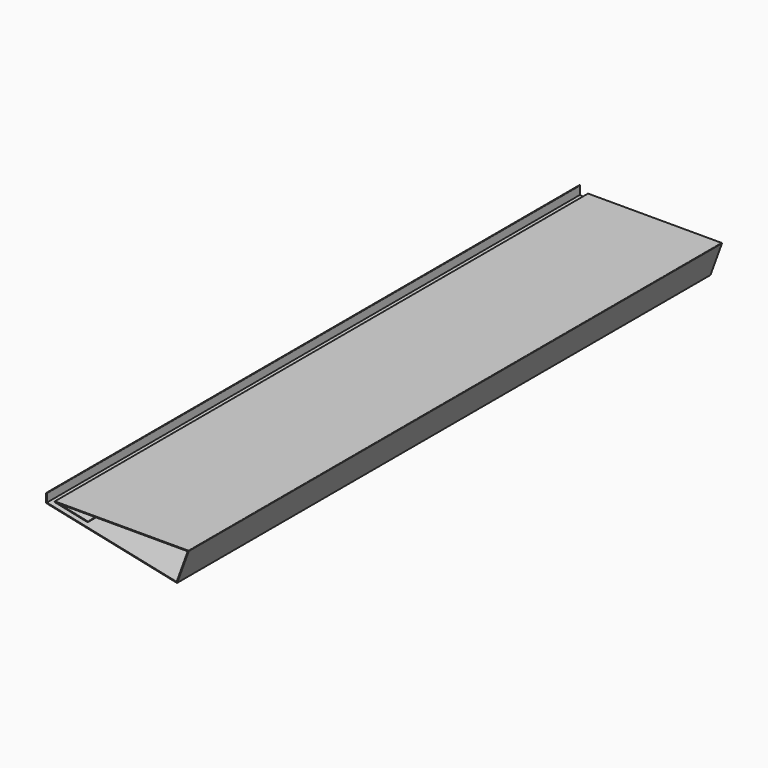
from build123d import *

# Parameters (mm, degrees)
F1_DEPTH = 200


with BuildPart() as f1:
    # F0 (on Front) → F1 (new body, symmetric)
    with BuildSketch(Plane.XZ):
        with BuildLine():
            Line((0.0519779227, 0.2445369002), (1.2024335862, 0))
            Line((1.2024335862, 0), (79.7339555569, 0))
            Line((79.7339555569, 0), (79.7650768448, 0.0855050358))
            ThreePointArc((79.7650768448, 0.0855050358), (79.8566058909, 0.2047880111), (80, 0.25))
            Line((80, 0.25), (0, 0.25))
            ThreePointArc((0, 0.25), (0.0261321158, 0.2486304738), (0.0519779227, 0.2445369002))
        make_face()
        with BuildLine():
            Line((2.3785911136, -0.25), (1.1761575274, -0.25))
            Line((1.1761575274, -0.25), (0, -0.25))
            ThreePointArc((0, -0.25), (-0.0261321158, -0.2486304738), (-0.0519779227, -0.2445369002))
            Line((-0.0519779227, -0.2445369002), (19.510974092, -4.4027707165))
            ThreePointArc((19.510974092, -4.4027707165), (19.8074889149, -4.2102117391), (19.6149299374, -3.9136969162))
            Line((19.6149299374, -3.9136969162), (2.3785911136, -0.25))
        make_face()
        with BuildLine():
            Line((72.9246739783, -18.7083473799), (72.999002372, -18.5041317967))
            Line((72.999002372, -18.5041317967), (-4.8422109252, -1.958471142))
            Line((-4.8422109252, -1.958471142), (-4.8422109252, -2.1609171503))
            ThreePointArc((-4.8422109252, -2.1609171503), (-4.8435804514, -2.1870492661), (-4.847674025, -2.212895073))
            Line((-4.847674025, -2.212895073), (72.9150602333, -18.741874493))
            ThreePointArc((72.9150602333, -18.741874493), (72.9192817095, -18.7249430768), (72.9246739783, -18.7083473799))
        make_face()
        Polygon((79.7339555569, 0), (1.2024335862, 0), (2.3785911136, -0.25), (79.6429629983, -0.25), align=None)
        with BuildLine():
            Line((80, -0.25), (79.9090074414, -0.25))
            Line((79.9090074414, -0.25), (73.2451021693, -18.5589292605))
            ThreePointArc((73.2451021693, -18.5589292605), (73.3861740802, -18.6881978503), (73.3945202887, -18.8793574515))
            Line((73.3945202887, -18.8793574515), (80.2349231552, -0.0855050358))
            ThreePointArc((80.2349231552, -0.0855050358), (80.1433941091, -0.2047880111), (80, -0.25))
        make_face()
        with BuildLine():
            Line((79.9090074414, -0.25), (79.6429629983, -0.25))
            Line((79.6429629983, -0.25), (72.999002372, -18.5041317967))
            Line((72.999002372, -18.5041317967), (73.2115750562, -18.5493155155))
            ThreePointArc((73.2115750562, -18.5493155155), (73.2285064724, -18.5535369917), (73.2451021693, -18.5589292605))
            Line((73.2451021693, -18.5589292605), (79.9090074414, -0.25))
        make_face()
        with BuildLine():
            ThreePointArc((73.1076192108, -19.0383893159), (72.9499294915, -18.9300121745), (72.9150602333, -18.741874493))
            Line((72.9150602333, -18.741874493), (-4.847674025, -2.212895073))
            ThreePointArc((-4.847674025, -2.212895073), (-4.9560511665, -2.3705847923), (-5.1441888479, -2.4054540505))
            Line((-5.1441888479, -2.4054540505), (73.1076192108, -19.0383893159))
        make_face()
        Polygon((1.2024335862, 0), (0, 0), (1.1761575274, -0.25), (2.3785911136, -0.25), align=None)
        with BuildLine():
            Line((-5.0402330025, -1.9163802501), (-4.8422109252, -1.958471142))
            Line((-4.8422109252, -1.958471142), (-4.8422109252, 2.8390828497))
            ThreePointArc((-4.8422109252, 2.8390828497), (-5.0922109252, 3.0890828497), (-5.3422109252, 2.8390828497))
            Line((-5.3422109252, 2.8390828497), (-5.3422109252, -2.1609171503))
            ThreePointArc((-5.3422109252, -2.1609171503), (-5.2689876205, -1.984140455), (-5.0922109252, -1.9109171503))
            ThreePointArc((-5.0922109252, -1.9109171503), (-5.0660788094, -1.9122866765), (-5.0402330025, -1.9163802501))
        make_face()
        with BuildLine():
            Line((1.1761575274, -0.25), (0, 0))
            Line((0, 0), (1.2024335862, 0))
            Line((1.2024335862, 0), (0.0519779227, 0.2445369002))
            ThreePointArc((0.0519779227, 0.2445369002), (0.0261321158, 0.2486304738), (0, 0.25))
            ThreePointArc((0, 0.25), (-0.2486304738, 0.0261321158), (-0.0519779227, -0.2445369002))
            ThreePointArc((-0.0519779227, -0.2445369002), (-0.0261321158, -0.2486304738), (0, -0.25))
            Line((0, -0.25), (1.1761575274, -0.25))
        make_face()
        with BuildLine():
            Line((79.7650768448, 0.0855050358), (79.7339555569, 0))
            Line((79.7339555569, 0), (80, 0))
            Line((80, 0), (79.9090074414, -0.25))
            Line((79.9090074414, -0.25), (80, -0.25))
            ThreePointArc((80, -0.25), (80.1433941091, -0.2047880111), (80.2349231552, -0.0855050358))
            ThreePointArc((80.2349231552, -0.0855050358), (80.2047880111, 0.1433941091), (80, 0.25))
            ThreePointArc((80, 0.25), (79.8566058909, 0.2047880111), (79.7650768448, 0.0855050358))
        make_face()
        with BuildLine():
            Line((-4.8422109252, -2.1609171503), (-4.8422109252, -1.958471142))
            Line((-4.8422109252, -1.958471142), (-5.0402330025, -1.9163802501))
            ThreePointArc((-5.0402330025, -1.9163802501), (-5.0660788094, -1.9122866765), (-5.0922109252, -1.9109171503))
            Line((-5.0922109252, -1.9109171503), (-5.0922109252, -2.1609171503))
            Line((-5.0922109252, -2.1609171503), (-4.847674025, -2.212895073))
            ThreePointArc((-4.847674025, -2.212895073), (-4.8435804514, -2.1870492661), (-4.8422109252, -2.1609171503))
        make_face()
        Polygon((80, 0), (79.7339555569, 0), (79.6429629983, -0.25), (79.9090074414, -0.25), align=None)
        with BuildLine():
            ThreePointArc((73.3945202887, -18.8793574515), (73.3861740802, -18.6881978503), (73.2451021693, -18.5589292605))
            Line((73.2451021693, -18.5589292605), (73.1595971335, -18.7938524157))
            Line((73.1595971335, -18.7938524157), (72.9150602333, -18.741874493))
            ThreePointArc((72.9150602333, -18.741874493), (72.9499294915, -18.9300121745), (73.1076192108, -19.0383893159))
            ThreePointArc((73.1076192108, -19.0383893159), (73.2807995385, -19.0125073425), (73.3945202887, -18.8793574515))
        make_face()
        with BuildLine():
            Line((73.2115750562, -18.5493155155), (72.999002372, -18.5041317967))
            Line((72.999002372, -18.5041317967), (72.9246739783, -18.7083473799))
            ThreePointArc((72.9246739783, -18.7083473799), (72.9192817095, -18.7249430768), (72.9150602333, -18.741874493))
            Line((72.9150602333, -18.741874493), (73.1595971335, -18.7938524157))
            Line((73.1595971335, -18.7938524157), (73.2451021693, -18.5589292605))
            ThreePointArc((73.2451021693, -18.5589292605), (73.2285064724, -18.5535369917), (73.2115750562, -18.5493155155))
        make_face()
        with BuildLine():
            ThreePointArc((-5.1441888479, -2.4054540505), (-4.9560511665, -2.3705847923), (-4.847674025, -2.212895073))
            Line((-4.847674025, -2.212895073), (-5.0922109252, -2.1609171503))
            Line((-5.0922109252, -2.1609171503), (-5.0922109252, -1.9109171503))
            ThreePointArc((-5.0922109252, -1.9109171503), (-5.2689876205, -1.984140455), (-5.3422109252, -2.1609171503))
            ThreePointArc((-5.3422109252, -2.1609171503), (-5.2864974156, -2.3182472481), (-5.1441888479, -2.4054540505))
        make_face()
    extrude(amount=F1_DEPTH, both=True)


solid = f1.part
